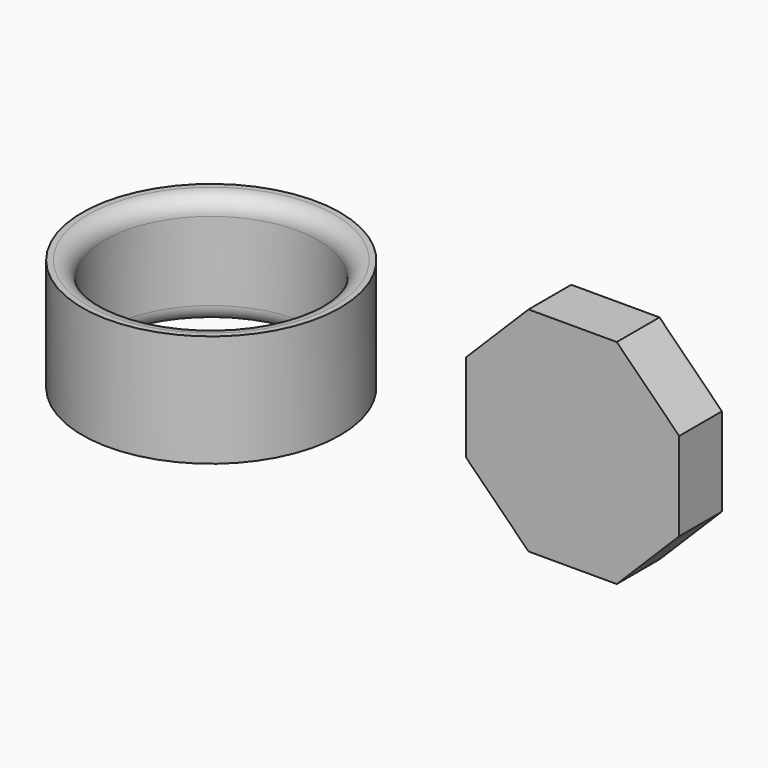
from build123d import *

# Parameters (mm, degrees)
F0_R     = 11.5
F0_R_2   = 9.5
F1_DEPTH = 10
F2_R     = 1.5
F4_DEPTH = 4.762


with BuildPart() as f1:
    # F0 (on Top) → F1 (new body)
    with BuildSketch(Plane.XY):
        Circle(F0_R)
        Circle(F0_R_2, mode=Mode.SUBTRACT)
    extrude(amount=F1_DEPTH)

    # F2
    f2_edges = [f1.edges().sort_by_distance(p)[0] for p in [
        (-9.5, 0, 10),
        (-9.5, 0, 0),
    ]]
    fillet(f2_edges, radius=F2_R)


with BuildPart() as f4:
    # F3 (on Front) → F4 (new body)
    with BuildSketch(Plane.XZ):
        Polygon((39.968242, 18.508302), (32.098184, 18.508302), (26.533213, 12.943331), (26.533213, 5.073274), (32.098184, -0.491698), (39.968242, -0.491698), (45.533213, 5.073274), (45.533213, 12.943331), align=None)
    extrude(amount=F4_DEPTH)


solid = Compound([f1.part, f4.part])
